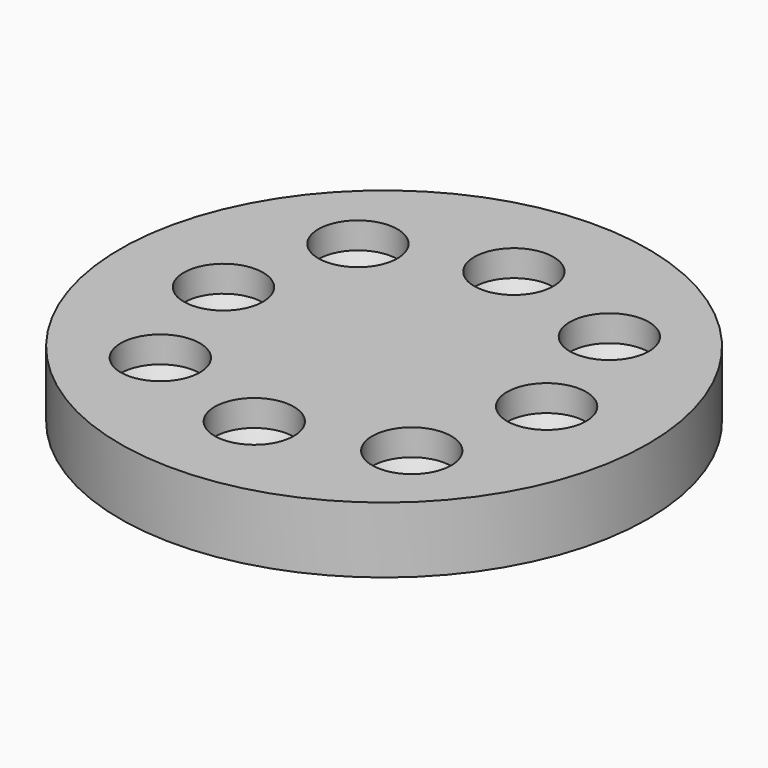
from build123d import *

# Parameters (mm, degrees)
F0_R     = 100
F1_DEPTH = 25
F3_D     = 30
F3_DEPTH = 10
F3_TIP   = 9.0129092854


with BuildPart() as f1:
    # F0 (on Top) → F1 (new body)
    with BuildSketch(Plane.XY):
        Circle(F0_R)
    extrude(amount=F1_DEPTH)

    # F3
    with Locations(Plane.XY.offset(25)):
        with Locations((-47.1477657557, 46.5463921428), (-60.8591064811, 0), (-47.1477657557, -47.0274910331), (0, -61.4604838192), (48.1099672616, -47.0274910331), (61.5807585418, 0), (48.1099672616, 46.5463921428), (0, 61.4604838192)):
            Hole(F3_D / 2, depth=F3_DEPTH)
            with Locations((0, 0, -(F3_DEPTH + F3_TIP / 2))):  # 118° drill point
                Cone(0, F3_D / 2, F3_TIP, mode=Mode.SUBTRACT)


solid = f1.part
